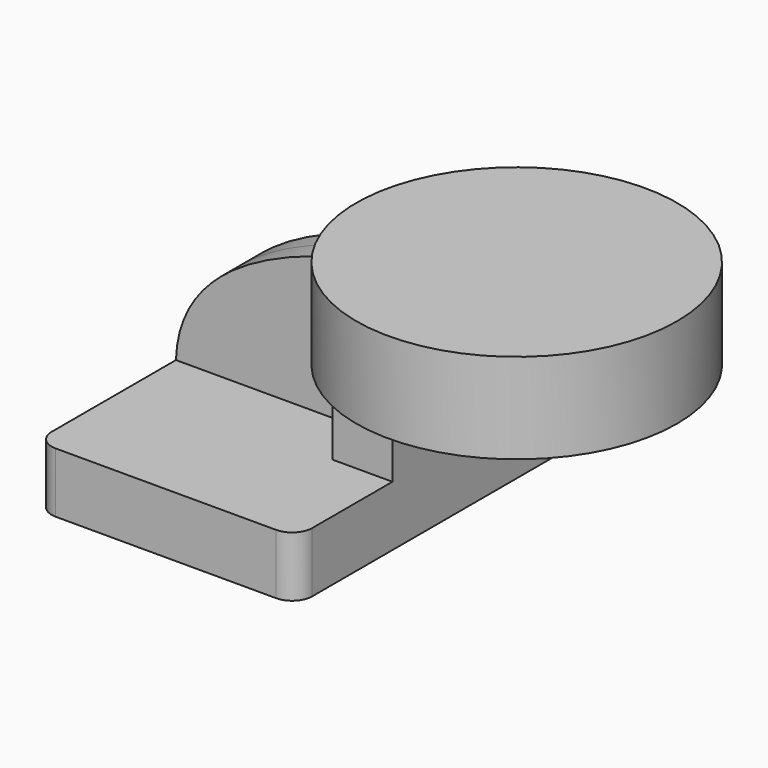
from build123d import *

# Parameters (mm, degrees)
F1_DEPTH = 63.5
F2_DEPTH = 25.4
F3_DEPTH = 7.9375
F5_R     = 6.35


with BuildPart() as f1:
    # F0 (on Front) → F1 (new body, symmetric)
    with BuildSketch(Plane.XZ):
        Polygon((22.225, 9.525), (-41.275, 9.525), (-41.275, -9.525), (41.275, -9.525), (41.275, 9.525), align=None)
    extrude(amount=F1_DEPTH, both=True)

    # F0 (on Front) → F2 (join, symmetric)
    with BuildSketch(Plane.XZ):
        with BuildLine():
            Line((22.225, 27.0002), (22.225, 9.525))
            Line((22.225, 9.525), (41.275, 9.525))
            Line((41.275, 9.525), (41.275, 27.0002))
            ThreePointArc((41.275, 27.0002), (45.92468, 38.22552), (57.15, 42.8752))
            Line((57.15, 42.8752), (60.325, 42.8752))
            Line((60.325, 42.8752), (60.325, 61.9252))
            Line((60.325, 61.9252), (57.15, 61.9252))
            add(Edge.make_bspline(
                [(52.862794, 61.661064), (54.29404, 61.759798), (55.723602, 61.847744), (57.15, 61.9252)],
                knots=[108.118875, 108.118875, 108.118875, 108.118875, 111.504536, 111.504536, 111.504536, 111.504536], degree=3))
            ThreePointArc((52.862794, 61.661064), (30.982403, 50.130537), (22.225, 27.0002))
        make_face()
    extrude(amount=F2_DEPTH, both=True)

    # F0 (on Front) → F3 (join, symmetric)
    with BuildSketch(Plane.XZ):
        with BuildLine():
            add(Edge.make_bspline(
                [(-41.275, 9.525), (-40.267717, 44.353871), (7.156863, 58.508061), (52.862794, 61.661064)],
                knots=[0, 0, 0, 0, 108.118875, 108.118875, 108.118875, 108.118875], degree=3))
            Line((-41.275, 9.525), (22.225, 9.525))
            Line((22.225, 9.525), (22.225, 27.0002))
            ThreePointArc((22.225, 27.0002), (30.982403, 50.130537), (52.862794, 61.661064))
        make_face()
    extrude(amount=F3_DEPTH, both=True)

    # F0 (on Front) → F4 (revolve)
    with BuildSketch(Plane.XZ):
        Polygon((60.325, 66.675), (60.325, 61.9252), (60.325, 42.8752), (60.325, 38.1), (111.125, 38.1), (111.125, 66.675), align=None)
    revolve(axis=Axis((60.325, 0, 52.3875), (0, 0, -1)))

    # F5
    f5_edges = [f1.edges().sort_by_distance(p)[0] for p in [
        (-41.275, -63.5, 0),
        (41.275, -63.5, 0),
        (41.275, 63.5, 0),
        (-41.275, 63.5, 0),
    ]]
    fillet(f5_edges, radius=F5_R)


solid = f1.part
